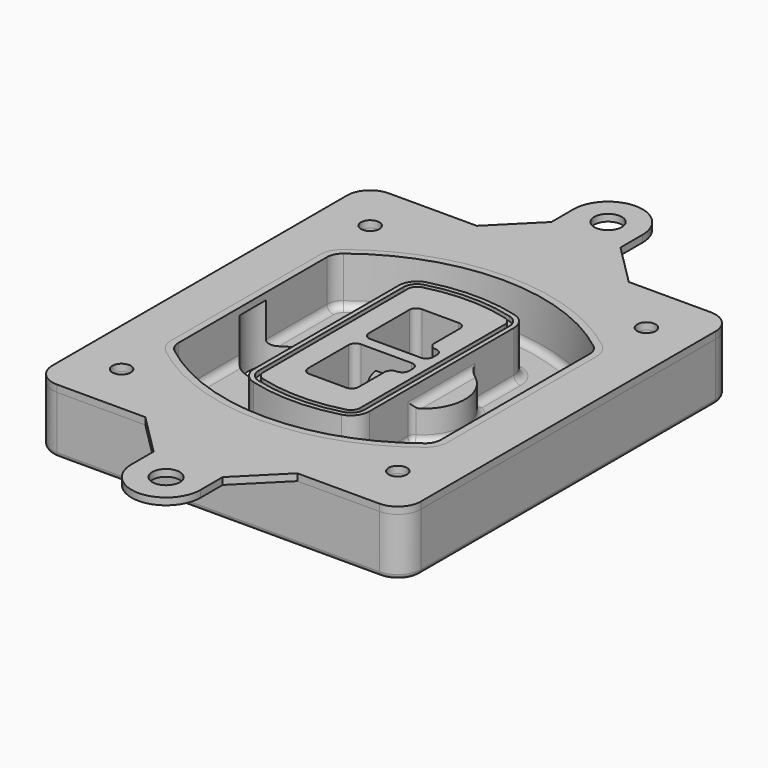
from build123d import *

# Parameters (mm, degrees)
F0_R      = 4
F1_DEPTH  = 25
F2_DEPTH  = 3
F3_DEPTH  = 18
F5_DEPTH  = 21
F6_DEPTH  = 2
F8_DEPTH  = 20
F9_DEPTH  = 16
F10_DEPTH = 25
F7_R      = 6
F7_R_2    = 4
F11_DEPTH = 6
F13_DEPTH = 9
F14_R     = 3
F15_R     = 2
F16_R     = 6
F16_R_2   = 4
F17_DEPTH = 3


with BuildPart() as f1:
    # F0 (on Top) → F1 (new body)
    with BuildSketch(Plane.XY):
        with BuildLine():
            ThreePointArc((-80, -80), (-77.0710678119, -87.0710678119), (-70, -90))
            Line((-70, -90), (70, -90))
            ThreePointArc((70, -90), (77.0710678119, -87.0710678119), (80, -80))
            Line((80, -80), (80, 80))
            ThreePointArc((80, 80), (77.0710678119, 87.0710678119), (70, 90))
            Line((70, 90), (-70, 90))
            ThreePointArc((-70, 90), (-77.0710678119, 87.0710678119), (-80, 80))
            Line((-80, 80), (-80, -80))
        make_face()
        with Locations((-60, -67.5)):
            Circle(F0_R, mode=Mode.SUBTRACT)
        with Locations((60, -67.5)):
            Circle(F0_R, mode=Mode.SUBTRACT)
        with Locations((-60, 67.5)):
            Circle(F0_R, mode=Mode.SUBTRACT)
        with BuildLine():
            ThreePointArc((-64, 40.2934422872), (-62.5820384798, 46.4328484224), (-58.6153846154, 51.3286200352))
            ThreePointArc((-58.6153846154, 51.3286200352), (0, 71.5), (58.6153846154, 51.3286200352))
            ThreePointArc((58.6153846154, 51.3286200352), (62.5820384798, 46.4328484224), (64, 40.2934422872))
            Line((64, 40.2934422872), (64, -40.2934422872))
            ThreePointArc((64, -40.2934422872), (62.5820384798, -46.4328484224), (58.6153846154, -51.3286200352))
            ThreePointArc((58.6153846154, -51.3286200352), (0, -71.5), (-58.6153846154, -51.3286200352))
            ThreePointArc((-58.6153846154, -51.3286200352), (-62.5820384798, -46.4328484224), (-64, -40.2934422872))
            Line((-64, -40.2934422872), (-64, 40.2934422872))
        make_face(mode=Mode.SUBTRACT)
        with Locations((60, 67.5)):
            Circle(F0_R, mode=Mode.SUBTRACT)
        with BuildLine():
            ThreePointArc((58.6153846154, 51.3286200352), (0, 71.5), (-58.6153846154, 51.3286200352))
            ThreePointArc((-58.6153846154, 51.3286200352), (-62.5820384798, 46.4328484224), (-64, 40.2934422872))
            Line((-64, 40.2934422872), (-64, -40.2934422872))
            ThreePointArc((-64, -40.2934422872), (-62.5820384798, -46.4328484224), (-58.6153846154, -51.3286200352))
            ThreePointArc((-58.6153846154, -51.3286200352), (0, -71.5), (58.6153846154, -51.3286200352))
            ThreePointArc((58.6153846154, -51.3286200352), (62.5820384798, -46.4328484224), (64, -40.2934422872))
            Line((64, -40.2934422872), (64, 40.2934422872))
            ThreePointArc((64, 40.2934422872), (62.5820384798, 46.4328484224), (58.6153846154, 51.3286200352))
        make_face()
        with BuildLine():
            Line((-60, -40.2934422872), (-60, 40.2934422872))
            ThreePointArc((-60, 40.2934422872), (-58.9871703427, 44.6787323838), (-56.1538461538, 48.1757121072))
            ThreePointArc((-56.1538461538, 48.1757121072), (0, 67.5), (56.1538461538, 48.1757121072))
            ThreePointArc((56.1538461538, 48.1757121072), (58.9871703427, 44.6787323838), (60, 40.2934422872))
            Line((60, 40.2934422872), (60, -40.2934422872))
            ThreePointArc((60, -40.2934422872), (58.9871703427, -44.6787323838), (56.1538461538, -48.1757121072))
            ThreePointArc((56.1538461538, -48.1757121072), (0, -67.5), (-56.1538461538, -48.1757121072))
            ThreePointArc((-56.1538461538, -48.1757121072), (-58.9871703427, -44.6787323838), (-60, -40.2934422872))
        make_face(mode=Mode.SUBTRACT)
        with BuildLine():
            ThreePointArc((-56.1538461538, 48.1757121072), (-58.9871703427, 44.6787323838), (-60, 40.2934422872))
            Line((-60, 40.2934422872), (-60, -40.2934422872))
            ThreePointArc((-60, -40.2934422872), (-58.9871703427, -44.6787323838), (-56.1538461538, -48.1757121072))
            ThreePointArc((-56.1538461538, -48.1757121072), (0, -67.5), (56.1538461538, -48.1757121072))
            ThreePointArc((56.1538461538, -48.1757121072), (58.9871703427, -44.6787323838), (60, -40.2934422872))
            Line((60, -40.2934422872), (60, 40.2934422872))
            ThreePointArc((60, 40.2934422872), (58.9871703427, 44.6787323838), (56.1538461538, 48.1757121072))
            ThreePointArc((56.1538461538, 48.1757121072), (0, 67.5), (-56.1538461538, 48.1757121072))
        make_face()
        with BuildLine():
            ThreePointArc((54.3076923077, 45.8110311612), (56.2910192399, 43.3631453548), (57, 40.2934422872))
            Line((57, 40.2934422872), (57, -40.2934422872))
            ThreePointArc((57, -40.2934422872), (56.2910192399, -43.3631453548), (54.3076923077, -45.8110311612))
            ThreePointArc((54.3076923077, -45.8110311612), (0, -64.5), (-54.3076923077, -45.8110311612))
            ThreePointArc((-54.3076923077, -45.8110311612), (-56.2910192399, -43.3631453548), (-57, -40.2934422872))
            Line((-57, -40.2934422872), (-57, 40.2934422872))
            ThreePointArc((-57, 40.2934422872), (-56.2910192399, 43.3631453548), (-54.3076923077, 45.8110311612))
            ThreePointArc((-54.3076923077, 45.8110311612), (0, 64.5), (54.3076923077, 45.8110311612))
        make_face(mode=Mode.SUBTRACT)
        with BuildLine():
            Line((57, -40.2934422872), (57, 40.2934422872))
            ThreePointArc((57, 40.2934422872), (56.2910192399, 43.3631453548), (54.3076923077, 45.8110311612))
            ThreePointArc((54.3076923077, 45.8110311612), (0, 64.5), (-54.3076923077, 45.8110311612))
            ThreePointArc((-54.3076923077, 45.8110311612), (-56.2910192399, 43.3631453548), (-57, 40.2934422872))
            Line((-57, 40.2934422872), (-57, -40.2934422872))
            ThreePointArc((-57, -40.2934422872), (-56.2910192399, -43.3631453548), (-54.3076923077, -45.8110311612))
            ThreePointArc((-54.3076923077, -45.8110311612), (0, -64.5), (54.3076923077, -45.8110311612))
            ThreePointArc((54.3076923077, -45.8110311612), (56.2910192399, -43.3631453548), (57, -40.2934422872))
        make_face()
    extrude(amount=-F1_DEPTH)

    # F0 (on Top) → F2 (join)
    with BuildSketch(Plane.XY):
        with BuildLine():
            ThreePointArc((-56.1538461538, 48.1757121072), (-58.9871703427, 44.6787323838), (-60, 40.2934422872))
            Line((-60, 40.2934422872), (-60, -40.2934422872))
            ThreePointArc((-60, -40.2934422872), (-58.9871703427, -44.6787323838), (-56.1538461538, -48.1757121072))
            ThreePointArc((-56.1538461538, -48.1757121072), (0, -67.5), (56.1538461538, -48.1757121072))
            ThreePointArc((56.1538461538, -48.1757121072), (58.9871703427, -44.6787323838), (60, -40.2934422872))
            Line((60, -40.2934422872), (60, 40.2934422872))
            ThreePointArc((60, 40.2934422872), (58.9871703427, 44.6787323838), (56.1538461538, 48.1757121072))
            ThreePointArc((56.1538461538, 48.1757121072), (0, 67.5), (-56.1538461538, 48.1757121072))
        make_face()
        with BuildLine():
            ThreePointArc((54.3076923077, 45.8110311612), (56.2910192399, 43.3631453548), (57, 40.2934422872))
            Line((57, 40.2934422872), (57, -40.2934422872))
            ThreePointArc((57, -40.2934422872), (56.2910192399, -43.3631453548), (54.3076923077, -45.8110311612))
            ThreePointArc((54.3076923077, -45.8110311612), (0, -64.5), (-54.3076923077, -45.8110311612))
            ThreePointArc((-54.3076923077, -45.8110311612), (-56.2910192399, -43.3631453548), (-57, -40.2934422872))
            Line((-57, -40.2934422872), (-57, 40.2934422872))
            ThreePointArc((-57, 40.2934422872), (-56.2910192399, 43.3631453548), (-54.3076923077, 45.8110311612))
            ThreePointArc((-54.3076923077, 45.8110311612), (0, 64.5), (54.3076923077, 45.8110311612))
        make_face(mode=Mode.SUBTRACT)
    extrude(amount=F2_DEPTH)

    # F0 (on Top) → F3 (cut)
    with BuildSketch(Plane.XY):
        with BuildLine():
            Line((57, -40.2934422872), (57, 40.2934422872))
            ThreePointArc((57, 40.2934422872), (56.2910192399, 43.3631453548), (54.3076923077, 45.8110311612))
            ThreePointArc((54.3076923077, 45.8110311612), (0, 64.5), (-54.3076923077, 45.8110311612))
            ThreePointArc((-54.3076923077, 45.8110311612), (-56.2910192399, 43.3631453548), (-57, 40.2934422872))
            Line((-57, 40.2934422872), (-57, -40.2934422872))
            ThreePointArc((-57, -40.2934422872), (-56.2910192399, -43.3631453548), (-54.3076923077, -45.8110311612))
            ThreePointArc((-54.3076923077, -45.8110311612), (0, -64.5), (54.3076923077, -45.8110311612))
            ThreePointArc((54.3076923077, -45.8110311612), (56.2910192399, -43.3631453548), (57, -40.2934422872))
        make_face()
    extrude(amount=-F3_DEPTH, mode=Mode.SUBTRACT)

    # F4 (on face) → F5 (join, through all)
    with BuildSketch(Plane.XY.offset(3)):
        with BuildLine():
            ThreePointArc((-25, -39.2465276821), (-23.3511545998, -44.1109737193), (-19.0842911877, -46.9702398883))
            ThreePointArc((-19.0842911877, -46.9702398883), (0, -49.5), (19.0842911877, -46.9702398883))
            ThreePointArc((19.0842911877, -46.9702398883), (23.3511545998, -44.1109737193), (25, -39.2465276821))
            Line((25, -39.2465276821), (25, 39.2465276821))
            ThreePointArc((25, 39.2465276821), (23.3511545998, 44.1109737193), (19.0842911877, 46.9702398883))
            ThreePointArc((19.0842911877, 46.9702398883), (0, 49.5), (-19.0842911877, 46.9702398883))
            ThreePointArc((-19.0842911877, 46.9702398883), (-23.3511545998, 44.1109737193), (-25, 39.2465276821))
            Line((-25, 39.2465276821), (-25, -39.2465276821))
        make_face()
        with BuildLine():
            ThreePointArc((18.5632183908, 45.0393118368), (21.7633659499, 42.89486221), (23, 39.2465276821))
            Line((23, 39.2465276821), (23, -39.2465276821))
            ThreePointArc((23, -39.2465276821), (21.7633659499, -42.89486221), (18.5632183908, -45.0393118368))
            ThreePointArc((18.5632183908, -45.0393118368), (0, -47.5), (-18.5632183908, -45.0393118368))
            ThreePointArc((-18.5632183908, -45.0393118368), (-21.7633659499, -42.89486221), (-23, -39.2465276821))
            Line((-23, -39.2465276821), (-23, 39.2465276821))
            ThreePointArc((-23, 39.2465276821), (-21.7633659499, 42.89486221), (-18.5632183908, 45.0393118368))
            ThreePointArc((-18.5632183908, 45.0393118368), (0, 47.5), (18.5632183908, 45.0393118368))
        make_face(mode=Mode.SUBTRACT)
        with BuildLine():
            Line((23, -39.2465276821), (23, 39.2465276821))
            ThreePointArc((23, 39.2465276821), (21.7633659499, 42.89486221), (18.5632183908, 45.0393118368))
            ThreePointArc((18.5632183908, 45.0393118368), (0, 47.5), (-18.5632183908, 45.0393118368))
            ThreePointArc((-18.5632183908, 45.0393118368), (-21.7633659499, 42.89486221), (-23, 39.2465276821))
            Line((-23, 39.2465276821), (-23, -39.2465276821))
            ThreePointArc((-23, -39.2465276821), (-21.7633659499, -42.89486221), (-18.5632183908, -45.0393118368))
            ThreePointArc((-18.5632183908, -45.0393118368), (0, -47.5), (18.5632183908, -45.0393118368))
            ThreePointArc((18.5632183908, -45.0393118368), (21.7633659499, -42.89486221), (23, -39.2465276821))
        make_face()
        with BuildLine():
            ThreePointArc((18.0421455939, 43.1083837852), (20.1755772999, 41.6787507007), (21, 39.2465276821))
            Line((21, 39.2465276821), (21, -39.2465276821))
            ThreePointArc((21, -39.2465276821), (20.1755772999, -41.6787507007), (18.0421455939, -43.1083837852))
            ThreePointArc((18.0421455939, -43.1083837852), (0, -45.5), (-18.0421455939, -43.1083837852))
            ThreePointArc((-18.0421455939, -43.1083837852), (-20.1755772999, -41.6787507007), (-21, -39.2465276821))
            Line((-21, -39.2465276821), (-21, 39.2465276821))
            ThreePointArc((-21, 39.2465276821), (-20.1755772999, 41.6787507007), (-18.0421455939, 43.1083837852))
            ThreePointArc((-18.0421455939, 43.1083837852), (0, 45.5), (18.0421455939, 43.1083837852))
        make_face(mode=Mode.SUBTRACT)
        with BuildLine():
            Line((21, -39.2465276821), (21, 39.2465276821))
            ThreePointArc((21, 39.2465276821), (20.1755772999, 41.6787507007), (18.0421455939, 43.1083837852))
            ThreePointArc((18.0421455939, 43.1083837852), (0, 45.5), (-18.0421455939, 43.1083837852))
            ThreePointArc((-18.0421455939, 43.1083837852), (-20.1755772999, 41.6787507007), (-21, 39.2465276821))
            Line((-21, 39.2465276821), (-21, -39.2465276821))
            ThreePointArc((-21, -39.2465276821), (-20.1755772999, -41.6787507007), (-18.0421455939, -43.1083837852))
            ThreePointArc((-18.0421455939, -43.1083837852), (0, -45.5), (18.0421455939, -43.1083837852))
            ThreePointArc((18.0421455939, -43.1083837852), (20.1755772999, -41.6787507007), (21, -39.2465276821))
        make_face()
        with BuildLine():
            Line((-8, -2.5), (14, -2.5))
            ThreePointArc((14, -2.5), (16.1213203436, -3.3786796564), (17, -5.5))
            Line((17, -5.5), (17, -7.5))
            ThreePointArc((17, -7.5), (16.1213203436, -9.6213203436), (14, -10.5))
            ThreePointArc((14, -10.5), (11.8786796564, -11.3786796564), (11, -13.5))
            Line((11, -13.5), (11, -27.5))
            ThreePointArc((11, -27.5), (10.1213203436, -29.6213203436), (8, -30.5))
            Line((8, -30.5), (-8, -30.5))
            ThreePointArc((-8, -30.5), (-10.1213203436, -29.6213203436), (-11, -27.5))
            Line((-11, -27.5), (-11, -5.5))
            ThreePointArc((-11, -5.5), (-10.1213203436, -3.3786796564), (-8, -2.5))
        make_face(mode=Mode.SUBTRACT)
        with BuildLine():
            ThreePointArc((-8, 2.5), (-10.1213203436, 3.3786796564), (-11, 5.5))
            Line((-11, 5.5), (-11, 27.5))
            ThreePointArc((-11, 27.5), (-10.1213203436, 29.6213203436), (-8, 30.5))
            Line((-8, 30.5), (8, 30.5))
            ThreePointArc((8, 30.5), (10.1213203436, 29.6213203436), (11, 27.5))
            Line((11, 27.5), (11, 13.5))
            ThreePointArc((11, 13.5), (11.8786796564, 11.3786796564), (14, 10.5))
            ThreePointArc((14, 10.5), (16.1213203436, 9.6213203436), (17, 7.5))
            Line((17, 7.5), (17, 5.5))
            ThreePointArc((17, 5.5), (16.1213203436, 3.3786796564), (14, 2.5))
            Line((14, 2.5), (-8, 2.5))
        make_face(mode=Mode.SUBTRACT)
    extrude(amount=-F5_DEPTH)

    # F4 (on face) → F6 (cut)
    with BuildSketch(Plane.XY.offset(3)):
        with BuildLine():
            Line((23, -39.2465276821), (23, 39.2465276821))
            ThreePointArc((23, 39.2465276821), (21.7633659499, 42.89486221), (18.5632183908, 45.0393118368))
            ThreePointArc((18.5632183908, 45.0393118368), (0, 47.5), (-18.5632183908, 45.0393118368))
            ThreePointArc((-18.5632183908, 45.0393118368), (-21.7633659499, 42.89486221), (-23, 39.2465276821))
            Line((-23, 39.2465276821), (-23, -39.2465276821))
            ThreePointArc((-23, -39.2465276821), (-21.7633659499, -42.89486221), (-18.5632183908, -45.0393118368))
            ThreePointArc((-18.5632183908, -45.0393118368), (0, -47.5), (18.5632183908, -45.0393118368))
            ThreePointArc((18.5632183908, -45.0393118368), (21.7633659499, -42.89486221), (23, -39.2465276821))
        make_face()
        with BuildLine():
            ThreePointArc((18.0421455939, 43.1083837852), (20.1755772999, 41.6787507007), (21, 39.2465276821))
            Line((21, 39.2465276821), (21, -39.2465276821))
            ThreePointArc((21, -39.2465276821), (20.1755772999, -41.6787507007), (18.0421455939, -43.1083837852))
            ThreePointArc((18.0421455939, -43.1083837852), (0, -45.5), (-18.0421455939, -43.1083837852))
            ThreePointArc((-18.0421455939, -43.1083837852), (-20.1755772999, -41.6787507007), (-21, -39.2465276821))
            Line((-21, -39.2465276821), (-21, 39.2465276821))
            ThreePointArc((-21, 39.2465276821), (-20.1755772999, 41.6787507007), (-18.0421455939, 43.1083837852))
            ThreePointArc((-18.0421455939, 43.1083837852), (0, 45.5), (18.0421455939, 43.1083837852))
        make_face(mode=Mode.SUBTRACT)
    extrude(amount=-F6_DEPTH, mode=Mode.SUBTRACT)

    # F7 (on face) → F8 (join)
    with BuildSketch(Plane(origin=(0, 0, -25), x_dir=(1, 0, 0), z_dir=(0, 0, -1))):
        with BuildLine():
            ThreePointArc((3.28842436, 0), (16.7567035675, 13.4682792075), (30.224982775, 0))
            Line((30.224982775, 0), (35.224982775, 0))
            ThreePointArc((35.224982775, 0), (16.7567035675, 18.4682792075), (-1.71157564, 0))
            Line((-1.71157564, 0), (3.28842436, 0))
        make_face()
        with BuildLine():
            Line((3.28842436, 0), (30.224982775, 0))
            ThreePointArc((30.224982775, 0), (16.7567035675, 13.4682792075), (3.28842436, 0))
        make_face()
        with BuildLine():
            ThreePointArc((3.28842436, 0), (16.7567035675, -13.4682792075), (30.224982775, 0))
            Line((30.224982775, 0), (3.28842436, 0))
        make_face()
        with BuildLine():
            Line((35.224982775, 0), (30.224982775, 0))
            ThreePointArc((30.224982775, 0), (16.7567035675, -13.4682792075), (3.28842436, 0))
            Line((3.28842436, 0), (-1.71157564, 0))
            ThreePointArc((-1.71157564, 0), (16.7567035675, -18.4682792075), (35.224982775, 0))
        make_face()
    extrude(amount=-F8_DEPTH)

    # F7 (on face) → F9 (cut)
    with BuildSketch(Plane(origin=(0, 0, -25), x_dir=(1, 0, 0), z_dir=(0, 0, -1))):
        with BuildLine():
            Line((3.28842436, 0), (30.224982775, 0))
            ThreePointArc((30.224982775, 0), (16.7567035675, 13.4682792075), (3.28842436, 0))
        make_face()
        with BuildLine():
            ThreePointArc((3.28842436, 0), (16.7567035675, -13.4682792075), (30.224982775, 0))
            Line((30.224982775, 0), (3.28842436, 0))
        make_face()
    extrude(amount=-F9_DEPTH, mode=Mode.SUBTRACT)

    # F7 (on face) → F10 (cut)
    with BuildSketch(Plane(origin=(0, 0, -25), x_dir=(1, 0, 0), z_dir=(0, 0, -1))):
        with BuildLine():
            Line((-59.0318229325, 0), (-32.0952645175, 0))
            ThreePointArc((-32.0952645175, 0), (-45.563543725, 13.4682792075), (-59.0318229325, 0))
        make_face()
        with BuildLine():
            ThreePointArc((-59.0318229325, 0), (-45.563543725, -13.4682792075), (-32.0952645175, 0))
            Line((-32.0952645175, 0), (-59.0318229325, 0))
        make_face()
    extrude(amount=-F10_DEPTH, mode=Mode.SUBTRACT)

    # F7 (on face) → F11 (cut)
    with BuildSketch(Plane(origin=(0, 0, -25), x_dir=(1, 0, 0), z_dir=(0, 0, -1))):
        with Locations((60, -67.5)):
            Circle(F7_R)
        with Locations((60, -67.5)):
            Circle(F7_R_2, mode=Mode.SUBTRACT)
        with Locations((60, -67.5)):
            Circle(F7_R)
        with Locations((60, -67.5)):
            Circle(F7_R_2, mode=Mode.SUBTRACT)
        with Locations((-60, -67.5)):
            Circle(F7_R)
        with Locations((-60, -67.5)):
            Circle(F7_R_2, mode=Mode.SUBTRACT)
        with Locations((-60, -67.5)):
            Circle(F7_R)
        with Locations((-60, -67.5)):
            Circle(F7_R_2, mode=Mode.SUBTRACT)
        with Locations((-60, 67.5)):
            Circle(F7_R)
        with Locations((-60, 67.5)):
            Circle(F7_R_2, mode=Mode.SUBTRACT)
        with Locations((-60, 67.5)):
            Circle(F7_R)
        with Locations((-60, 67.5)):
            Circle(F7_R_2, mode=Mode.SUBTRACT)
        with Locations((60, 67.5)):
            Circle(F7_R)
        with Locations((60, 67.5)):
            Circle(F7_R_2, mode=Mode.SUBTRACT)
        with Locations((60, 67.5)):
            Circle(F7_R)
        with Locations((60, 67.5)):
            Circle(F7_R_2, mode=Mode.SUBTRACT)
    extrude(amount=-F11_DEPTH, mode=Mode.SUBTRACT)

    # F12 (on face) → F13 (cut, through all)
    with BuildSketch(Plane(origin=(0, 0, -9), x_dir=(1, 0, 0), z_dir=(0, 0, -1))):
        with BuildLine():
            Line((11, 13.5), (11, 17.5481537753))
            ThreePointArc((11, 17.5481537753), (2.5696536419, 11.8239143813), (-1.5415842455, 2.5))
            Line((-1.5415842455, 2.5), (3.5224848595, 2.5))
            ThreePointArc((3.5224848595, 2.5), (6.1857188154, 8.3455872281), (11.2536447004, 12.2927168648))
            ThreePointArc((11.2536447004, 12.2927168648), (11.0640958889, 12.8831798879), (11, 13.5))
        make_face()
        with BuildLine():
            ThreePointArc((11.2536447004, -12.2927168648), (6.1857188154, -8.3455872281), (3.5224848595, -2.5))
            Line((3.5224848595, -2.5), (-1.5415842455, -2.5))
            ThreePointArc((-1.5415842455, -2.5), (2.5696536419, -11.8239143813), (11, -17.5481537753))
            Line((11, -17.5481537753), (11, -13.5))
            ThreePointArc((11, -13.5), (11.0640958889, -12.8831798879), (11.2536447004, -12.2927168648))
        make_face()
        with BuildLine():
            ThreePointArc((11.2536447004, 12.2927168648), (6.1857188154, 8.3455872281), (3.5224848595, 2.5))
            Line((3.5224848595, 2.5), (14, 2.5))
            ThreePointArc((14, 2.5), (16.1213203436, 3.3786796564), (17, 5.5))
            Line((17, 5.5), (17, 7.5))
            ThreePointArc((17, 7.5), (16.1213203436, 9.6213203436), (14, 10.5))
            ThreePointArc((14, 10.5), (12.3601599782, 10.9878446101), (11.2536447004, 12.2927168648))
        make_face()
        with BuildLine():
            Line((14, -2.5), (3.5224848595, -2.5))
            ThreePointArc((3.5224848595, -2.5), (6.1857188154, -8.3455872281), (11.2536447004, -12.2927168648))
            ThreePointArc((11.2536447004, -12.2927168648), (12.3601599782, -10.9878446101), (14, -10.5))
            ThreePointArc((14, -10.5), (16.1213203436, -9.6213203436), (17, -7.5))
            Line((17, -7.5), (17, -5.5))
            ThreePointArc((17, -5.5), (16.1213203436, -3.3786796564), (14, -2.5))
        make_face()
    extrude(amount=F13_DEPTH, mode=Mode.SUBTRACT)

    # F14
    f14_edges = [f1.edges().sort_by_distance(p)[0] for p in [
        (-57, -23.703476, -18),
        (-57, 23.703476, -18),
        (25, 0, -5),
        (25, 16.526506, -11.5),
        (25, -16.526506, -11.5),
        (25, -27.886517, -18),
        (35.224983, 0, -18),
    ]]
    fillet(f14_edges, radius=F14_R)

    # F15
    f15_edges = [f1.edges().sort_by_distance(p)[0] for p in [
        (0, -90, -25),
    ]]
    fillet(f15_edges, radius=F15_R)


with BuildPart() as f17:
    # F16 (on face) → F17 (new body, through all)
    with BuildSketch(Plane.XY):
        with BuildLine():
            Line((34.324588639, -90), (-31.675411361, -90))
            Line((-31.675411361, -90), (-13.675411361, -108))
            Line((-13.675411361, -108), (-13.675411361, -120))
            ThreePointArc((-13.675411361, -120), (1.324588639, -135), (16.324588639, -120))
            Line((16.324588639, -120), (16.324588639, -108))
            Line((16.324588639, -108), (34.324588639, -90))
        make_face()
        with Locations((1.324588639, -120)):
            Circle(F16_R, mode=Mode.SUBTRACT)
        with BuildLine():
            Line((34.324588639, 90), (-31.675411361, 90))
            Line((-31.675411361, 90), (-70, 90))
            ThreePointArc((-70, 90), (-77.0710678119, 87.0710678119), (-80, 80))
            Line((-80, 80), (-80, -80))
            ThreePointArc((-80, -80), (-77.0710678119, -87.0710678119), (-70, -90))
            Line((-70, -90), (-31.675411361, -90))
            Line((-31.675411361, -90), (34.324588639, -90))
            Line((34.324588639, -90), (70, -90))
            ThreePointArc((70, -90), (77.0710678119, -87.0710678119), (80, -80))
            Line((80, -80), (80, 80))
            ThreePointArc((80, 80), (77.0710678119, 87.0710678119), (70, 90))
            Line((70, 90), (34.324588639, 90))
        make_face()
        with Locations((-60, -67.5)):
            Circle(F16_R_2, mode=Mode.SUBTRACT)
        with Locations((60, -67.5)):
            Circle(F16_R_2, mode=Mode.SUBTRACT)
        with Locations((-60, 67.5)):
            Circle(F16_R_2, mode=Mode.SUBTRACT)
        with BuildLine():
            ThreePointArc((-60, 40.2934422872), (-58.9871703427, 44.6787323838), (-56.1538461538, 48.1757121072))
            ThreePointArc((-56.1538461538, 48.1757121072), (0, 67.5), (56.1538461538, 48.1757121072))
            ThreePointArc((56.1538461538, 48.1757121072), (58.9871703427, 44.6787323838), (60, 40.2934422872))
            Line((60, 40.2934422872), (60, -40.2934422872))
            ThreePointArc((60, -40.2934422872), (58.9871703427, -44.6787323838), (56.1538461538, -48.1757121072))
            ThreePointArc((56.1538461538, -48.1757121072), (0, -67.5), (-56.1538461538, -48.1757121072))
            ThreePointArc((-56.1538461538, -48.1757121072), (-58.9871703427, -44.6787323838), (-60, -40.2934422872))
            Line((-60, -40.2934422872), (-60, 40.2934422872))
        make_face(mode=Mode.SUBTRACT)
        with Locations((60, 67.5)):
            Circle(F16_R_2, mode=Mode.SUBTRACT)
        with BuildLine():
            Line((-13.675411361, 120), (-13.675411361, 108))
            Line((-13.675411361, 108), (-31.675411361, 90))
            Line((-31.675411361, 90), (34.324588639, 90))
            Line((34.324588639, 90), (16.324588639, 108))
            Line((16.324588639, 108), (16.324588639, 120))
            ThreePointArc((16.324588639, 120), (1.324588639, 135), (-13.675411361, 120))
        make_face()
        with Locations((1.324588639, 120)):
            Circle(F16_R, mode=Mode.SUBTRACT)
    extrude(amount=F17_DEPTH)


solid = Compound([f1.part, f17.part])
